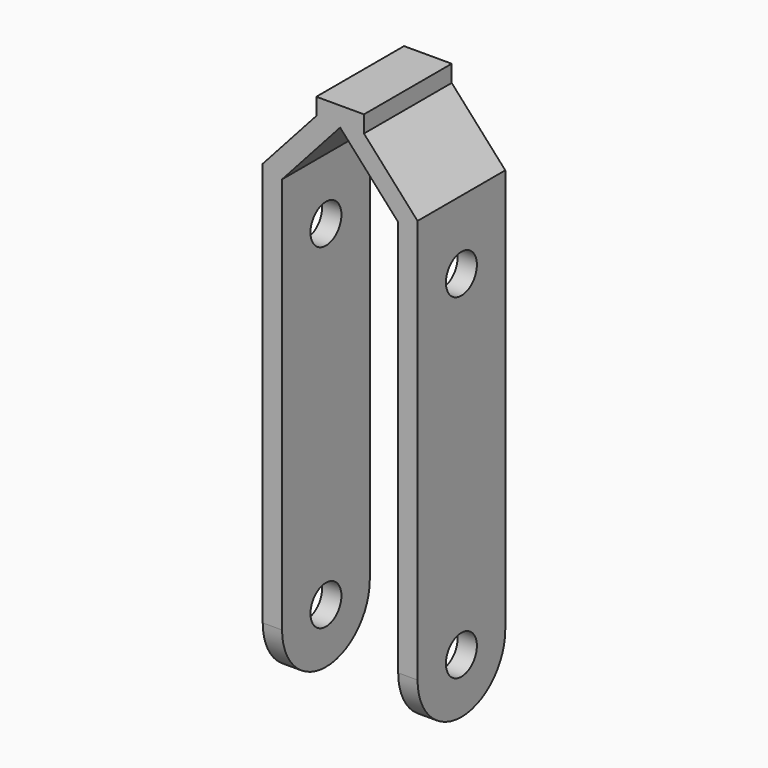
from build123d import *

# Parameters (mm, degrees)
F1_DEPTH = 25
F2_W     = 4
F2_H     = 71.1512080157
F3_DEPTH = 25
F4_R     = 3
F5_DEPTH = 25


with BuildPart() as f1:
    # F0 (on Front) → F1 (new body)
    with BuildSketch(Plane.XZ):
        Polygon((9, -73.9955009194), (12, -73.9955009194), (12, -2.8442929037), (3.6967449024, 6.3815460937), (3.6967449024, 9.0044990806), (-3.6967449024, 9.0044990806), (-3.6967449024, 6.3815460937), (-12, -2.8442929037), (-12, -73.9955009194), (-9, -73.9955009194), (-9, -3.9955009194), (0, 6.0044990806), (9, -3.9955009194), align=None)
    extrude(amount=F1_DEPTH)

    # F2 (on face) → F3 (cut)
    with BuildSketch(Plane.YZ.offset(12)):
        with Locations((-23, -38.4198969115)):
            Rectangle(F2_W, F2_H)
        with Locations((-2, -38.4198969115)):
            Rectangle(F2_W, F2_H)
        Polygon((-4, 9.0044990806), (-4, -2.8442929037), (0, -2.8442929037), (0, -73.9955009194), (3.3893596847, -73.9955009194), (3.3893596847, 9.0044990806), align=None)
        Polygon((-25, -2.8442929037), (-21, -2.8442929037), (-21, 9.0044990806), (-27.9794055969, 9.0044990806), (-27.9794055969, -73.9955009194), (-25, -73.9955009194), align=None)
    extrude(amount=-F3_DEPTH, mode=Mode.SUBTRACT)

    # F4 (on face) → F5 (cut)
    with BuildSketch(Plane.YZ.offset(12)):
        with BuildLine():
            ThreePointArc((-12.5, -73.9955009194), (-18.5104076401, -71.5059085594), (-21, -65.4955009194))
            Line((-21, -65.4955009194), (-21, -73.9955009194))
            Line((-21, -73.9955009194), (-12.5, -73.9955009194))
        make_face()
        with BuildLine():
            ThreePointArc((-4, -65.4955009194), (-6.4895923599, -71.5059085594), (-12.5, -73.9955009194))
            Line((-12.5, -73.9955009194), (-4, -73.9955009194))
            Line((-4, -73.9955009194), (-4, -65.4955009194))
        make_face()
        with Locations((-12.5, -65.4955009194)):
            Circle(F4_R)
        with Locations((-12.5, -13.4955009194)):
            Circle(F4_R)
    extrude(amount=-F5_DEPTH, mode=Mode.SUBTRACT)


solid = f1.part
